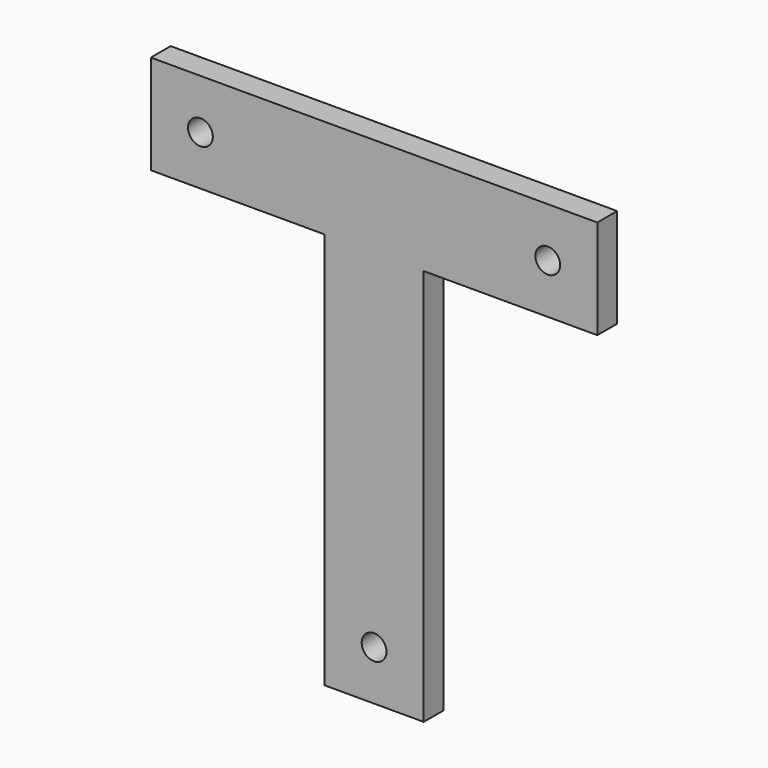
from build123d import *

# Parameters (mm, degrees)
F1_DEPTH = 6.35
F2_D     = 6.35


with BuildPart() as f1:
    # F0 (on Front) → F1 (new body)
    with BuildSketch(Plane.XZ):
        Polygon((-12.7, -63.5), (12.7, -63.5), (12.7, 38.1), (57.15, 38.1), (57.15, 63.5), (-57.15, 63.5), (-57.15, 38.1), (-12.7, 38.1), align=None)
    extrude(amount=-F1_DEPTH)

    # F2 (through all)
    with Locations(Plane.XZ):
        with Locations((-44.45, 50.8), (44.45, 50.8), (0, -50.8)):
            Hole(F2_D / 2)


solid = f1.part
